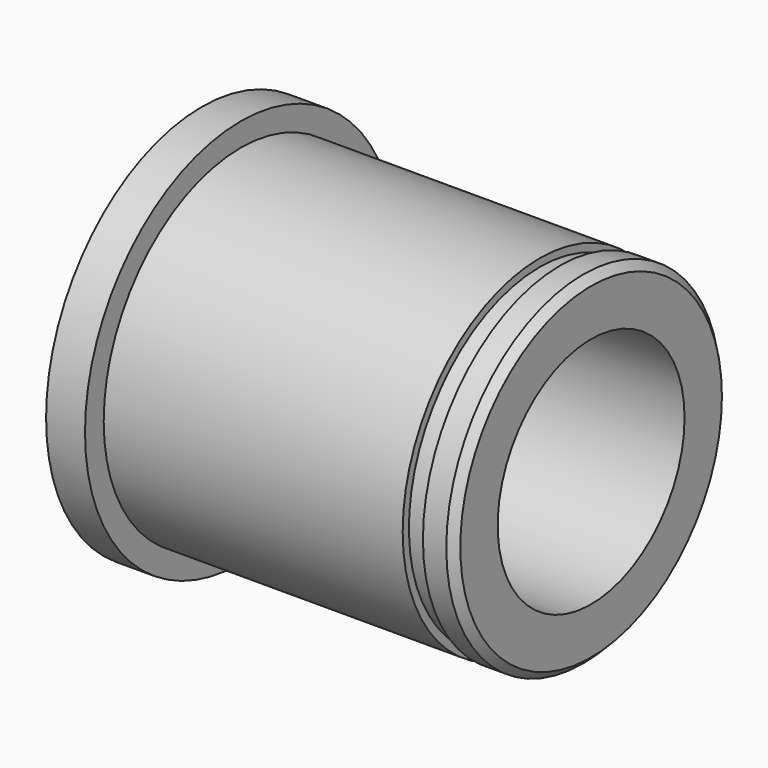
from build123d import *

# Parameters (mm, degrees)
F2_SIZE = 0.5
F3_W    = 1.3
F3_H    = 0.5


with BuildPart() as f1:
    # F0 (on Top) → F1 (revolve)
    with BuildSketch(Plane.XY):
        Polygon((0, 12.5), (0, 7.5), (25, 7.5), (25, 11), (2.5, 11), (2.5, 12.5), align=None)
    revolve(axis=Axis((6.446342, 0, 0), (1, 0, 0)))

    # F2
    f2_edges = [f1.edges().sort_by_distance(p)[0] for p in [
        (25, -11, 0),
    ]]
    chamfer(f2_edges, length=F2_SIZE)

    # F3 (on Front) → F4 (revolve, cut)
    with BuildSketch(Plane.XZ):
        with Locations((22.35, 10.75)):
            Rectangle(F3_W, F3_H)
    revolve(axis=Axis((15.843794, 0, 0), (1, 0, 0)), mode=Mode.SUBTRACT)


solid = f1.part
